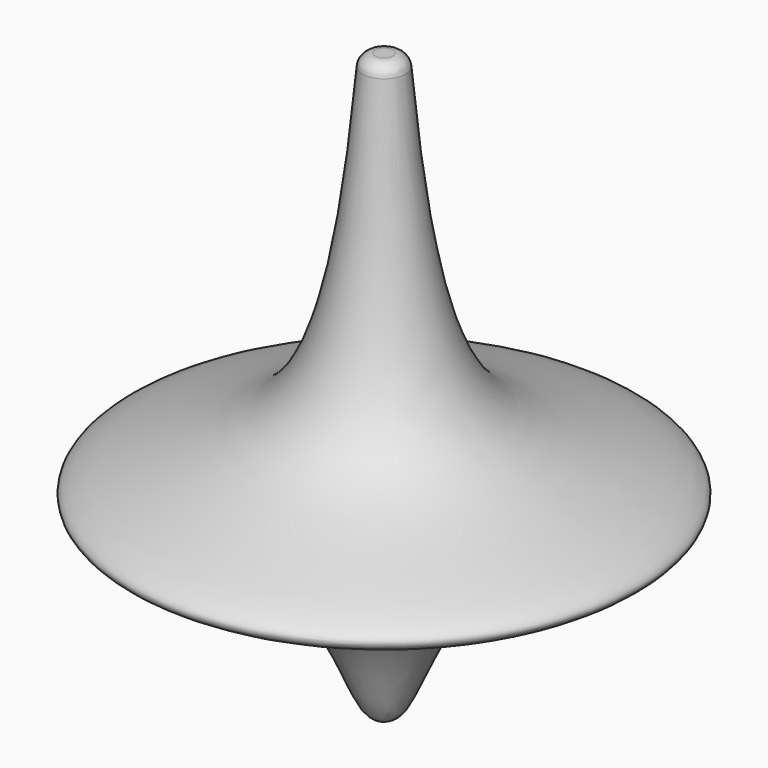
from build123d import *

# Parameters (mm, degrees)
F2_R = 0.5


with BuildPart() as f1:
    # F0 (on Front) → F1 (revolve)
    with BuildSketch(Plane.XZ):
        with BuildLine():
            Line((0, 23), (0, 0))
            add(Edge.make_bspline(
                [(0.8, 23), (1.60920574, 13.0700263643), (3.4854057995, 10.2448282909), (8.5671397673, 8.7944331416), (10.5186823686, 7.7932518548), (8.5345449289, 6.8303895208), (3.409575061, 6.308357823), (1.2702663179, 1.6053983348), (0.6, 0), (0, 0)],
                knots=[0, 0, 0, 0, 0.2646114447, 0.4098188458, 0.4960949452, 0.5807716591, 0.7423691673, 0.9024461536, 1, 1, 1, 1], degree=3))
            Line((0.8, 23), (0, 23))
        make_face()
    revolve(axis=Axis((0, 0, 11.5), (0, 0, 1)))

    # F2
    f2_edges = [f1.edges().sort_by_distance(p)[0] for p in [
        (-0.8, 0, 23),
    ]]
    fillet(f2_edges, radius=F2_R)


solid = f1.part
